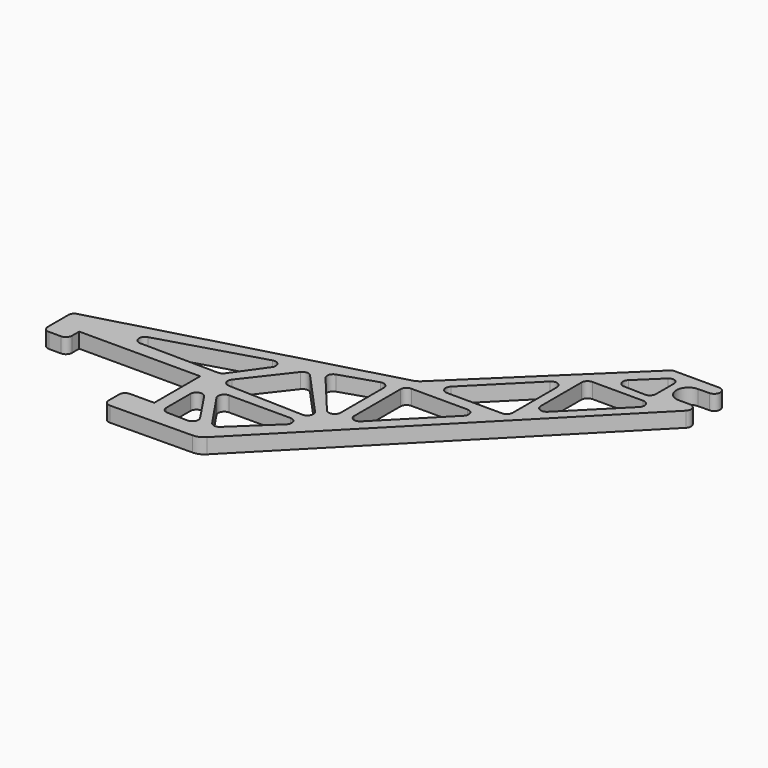
from build123d import *

# Parameters (mm, degrees)
F1_DEPTH = 5


with BuildPart() as f1:
    # F0 (on Top) → F1 (new body)
    with BuildSketch(Plane.XY):
        with BuildLine():
            ThreePointArc((-2.674113, -54.37004), (-0.770343, -53.970695), (0.836963, -52.875074))
            Line((0.836963, -52.875074), (88.193572, 36.010466))
            ThreePointArc((88.193572, 36.010466), (88.611566, 38.185732), (86.767144, 39.412358))
            Line((86.767144, 39.412358), (83.100055, 39.412358))
            ThreePointArc((83.100055, 39.412358), (79.100055, 43.412358), (83.100055, 47.412358))
            Line((83.100055, 47.412358), (86.767144, 47.454403))
            ThreePointArc((86.767144, 47.454403), (88.767144, 49.454403), (86.767144, 51.454403))
            Line((86.767144, 51.454403), (71.387003, 51.454403))
            Line((71.387003, 51.454403), (24.701984, 6.277601))
            ThreePointArc((24.701984, 6.277601), (23.703334, 5.528153), (22.550135, 5.049502))
            Line((22.550135, 5.049502), (-68.458309, -19.965363))
            ThreePointArc((-68.458309, -19.965363), (-69.412453, -20.609364), (-69.781248, -21.699831))
            Line((-69.781248, -21.699831), (-69.786822, -30.330341))
            ThreePointArc((-69.786822, -30.330341), (-69.201493, -31.74539), (-67.786822, -32.331633))
            Line((-67.786822, -32.331633), (-63.788114, -32.331633))
            ThreePointArc((-63.788114, -32.331633), (-62.373901, -31.745846), (-61.788114, -30.331633))
            Line((-61.788114, -30.331633), (-61.788114, -27.331633))
            Line((-61.788114, -27.331633), (-21.788114, -27.331633))
            Line((-21.788114, -27.331633), (-21.788114, -46.331633))
            Line((-21.788114, -46.331633), (-29.788114, -46.331633))
            ThreePointArc((-29.788114, -46.331633), (-31.202328, -46.917419), (-31.788114, -48.331633))
            Line((-31.788114, -48.331633), (-31.788114, -52.668167))
            ThreePointArc((-31.788114, -52.668167), (-31.194529, -54.090137), (-29.766116, -54.668046))
            Line((-29.766116, -54.668046), (-2.674113, -54.37004))
        make_face()
        with BuildLine():
            Line((-13.958797, -35.468011), (-7.226438, -45.566549))
            ThreePointArc((-7.226438, -45.566549), (-7.138692, -47.640851), (-8.938748, -48.675368))
            Line((-8.938748, -48.675368), (-15.671107, -48.513038))
            ThreePointArc((-15.671107, -48.513038), (-17.054054, -47.910684), (-17.622897, -46.513619))
            Line((-17.622897, -46.513619), (-17.622897, -36.577411))
            ThreePointArc((-17.622897, -36.577411), (-16.202466, -34.663227), (-13.958797, -35.468011))
        make_face(mode=Mode.SUBTRACT)
        with BuildLine():
            ThreePointArc((-10.975061, -34.104397), (-11.085903, -32.045596), (-9.319116, -30.982859))
            Line((-9.319116, -30.982859), (10.997215, -30.982859))
            ThreePointArc((10.997215, -30.982859), (12.855047, -32.242277), (12.373093, -34.434397))
            Line((12.373093, -34.434397), (0, -46.162553))
            ThreePointArc((0, -46.162553), (-1.59229, -46.699272), (-3.031822, -45.832553))
            Line((-3.031822, -45.832553), (-10.975061, -34.104397))
        make_face(mode=Mode.SUBTRACT)
        with BuildLine():
            Line((-10.519725, -11.797756), (-17.826055, -22.051859))
            ThreePointArc((-17.826055, -22.051859), (-18.5489, -22.674313), (-19.477843, -22.891148))
            Line((-19.477843, -22.891148), (-45.430275, -22.593101))
            ThreePointArc((-45.430275, -22.593101), (-47.387827, -20.871703), (-45.980863, -18.677238))
            Line((-45.980863, -18.677238), (-12.722101, -8.721183))
            ThreePointArc((-12.722101, -8.721183), (-10.522285, -9.473013), (-10.519725, -11.797756))
        make_face(mode=Mode.SUBTRACT)
        with BuildLine():
            Line((12.215566, -27.616652), (-12.687871, -26.858329))
            ThreePointArc((-12.687871, -26.858329), (-14.436563, -25.711004), (-14.206369, -23.632232))
            Line((-14.206369, -23.632232), (-3.058227, -9.282833))
            ThreePointArc((-3.058227, -9.282833), (-1.556912, -8.511381), (0, -9.163386))
            Line((0, -9.163386), (13.755295, -24.271108))
            ThreePointArc((13.755295, -24.271108), (14.093259, -26.453739), (12.215566, -27.616652))
        make_face(mode=Mode.SUBTRACT)
        with BuildLine():
            Line((19.271857, -2.765768), (19.271857, -20.532251))
            ThreePointArc((19.271857, -20.532251), (17.953823, -22.41239), (15.736935, -21.814441))
            Line((15.736935, -21.814441), (4.052052, -7.826359))
            ThreePointArc((4.052052, -7.826359), (3.665453, -5.989415), (4.97163, -4.641184))
            Line((4.97163, -4.641184), (16.656512, -0.862783))
            ThreePointArc((16.656512, -0.862783), (18.448571, -1.148565), (19.271857, -2.765768))
        make_face(mode=Mode.SUBTRACT)
        with BuildLine():
            Line((25.136737, 1.298854), (43.714296, 1.298854))
            ThreePointArc((43.714296, 1.298854), (45.559407, 0.070584), (45.138224, -2.105579))
            Line((45.138224, -2.105579), (26.389468, -21.114586))
            ThreePointArc((26.389468, -21.114586), (24.315692, -21.538242), (23.136737, -19.780375))
            Line((23.136737, -19.780375), (23.136737, -0.701146))
            ThreePointArc((23.136737, -0.701146), (23.722523, 0.713067), (25.136737, 1.298854))
        make_face(mode=Mode.SUBTRACT)
        with BuildLine():
            ThreePointArc((53.998229, 7.187327), (53.412442, 5.773113), (51.998229, 5.187327))
            Line((51.998229, 5.187327), (33.807475, 5.187327))
            ThreePointArc((33.807475, 5.187327), (31.9603, 6.42055), (32.391104, 8.59938))
            Line((32.391104, 8.59938), (50.581858, 26.845761))
            ThreePointArc((50.581858, 26.845761), (52.762185, 27.282051), (53.998229, 25.433708))
            Line((53.998229, 25.433708), (53.998229, 7.187327))
        make_face(mode=Mode.SUBTRACT)
        with BuildLine():
            Line((59.283667, 33.462164), (76.083784, 33.462164))
            ThreePointArc((76.083784, 33.462164), (77.930966, 32.228923), (77.500126, 30.050083))
            Line((77.500126, 30.050083), (60.700009, 13.199277))
            ThreePointArc((60.700009, 13.199277), (58.519692, 12.763024), (57.283667, 14.611359))
            Line((57.283667, 14.611359), (57.283667, 31.462164))
            ThreePointArc((57.283667, 31.462164), (57.869453, 32.876378), (59.283667, 33.462164))
        make_face(mode=Mode.SUBTRACT)
        with BuildLine():
            Line((76.341538, 45.880931), (76.341538, 38.404973))
            ThreePointArc((76.341538, 38.404973), (75.736125, 36.971401), (74.28641, 36.405733))
            Line((74.28641, 36.405733), (67.249003, 36.599787))
            ThreePointArc((67.249003, 36.599787), (65.439989, 37.874478), (65.913325, 40.036266))
            Line((65.913325, 40.036266), (73.289812, 47.174446))
            ThreePointArc((73.289812, 47.174446), (75.243995, 47.538204), (76.341538, 45.880931))
        make_face(mode=Mode.SUBTRACT)
    extrude(amount=F1_DEPTH)


solid = f1.part
